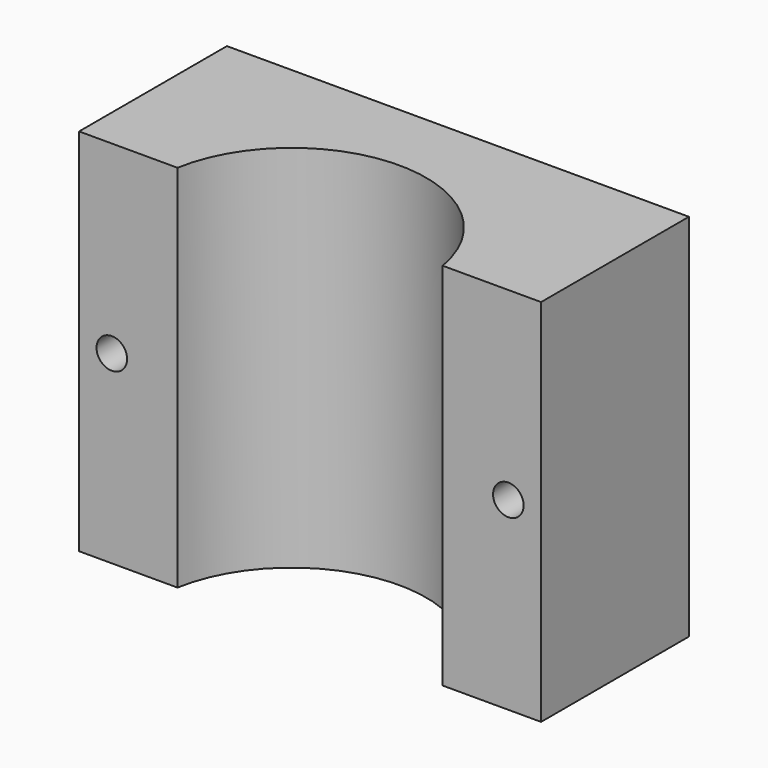
from build123d import *

# Parameters (mm, degrees)
PAD001_DEPTH  = 25.4
SKETCH004_R   = 2.1
HOLE001_DEPTH = 195.78938


with BuildPart() as part:
    # CopySketch002 → Pad001 (new body, symmetric)
    with BuildSketch(Plane.XY):
        with BuildLine():
            Line((31.75, 25.4), (-31.75, 25.4))
            Line((-31.75, 25.4), (-31.75, 0))
            Line((-18.225514, 0), (-31.75, 0))
            ThreePointArc((18.225514, 0), (0, 15.325), (-18.225514, 0))
            Line((31.75, 0), (18.225514, 0))
            Line((31.75, 25.4), (31.75, 0))
        make_face()
    extrude(amount=PAD001_DEPTH, both=True)

    # Sketch004 (on Face2 of Pad001) → Hole001 (cut, through all)
    with BuildSketch(Plane(origin=(0, 25.4, 0), x_dir=(-1, 0, 0), z_dir=(0, 1, 0))):
        with Locations((-27.25, 0)):
            Circle(SKETCH004_R)
    hole001 = extrude(amount=-HOLE001_DEPTH, mode=Mode.SUBTRACT)

    # Mirrored002: Hole001 across Sketch004 V_Axis
    add(hole001.mirror(Plane(origin=(0, 25.4, 0), x_dir=(0, 1, 0), z_dir=(-1, 0, 0))), mode=Mode.SUBTRACT)


solid = part.part
